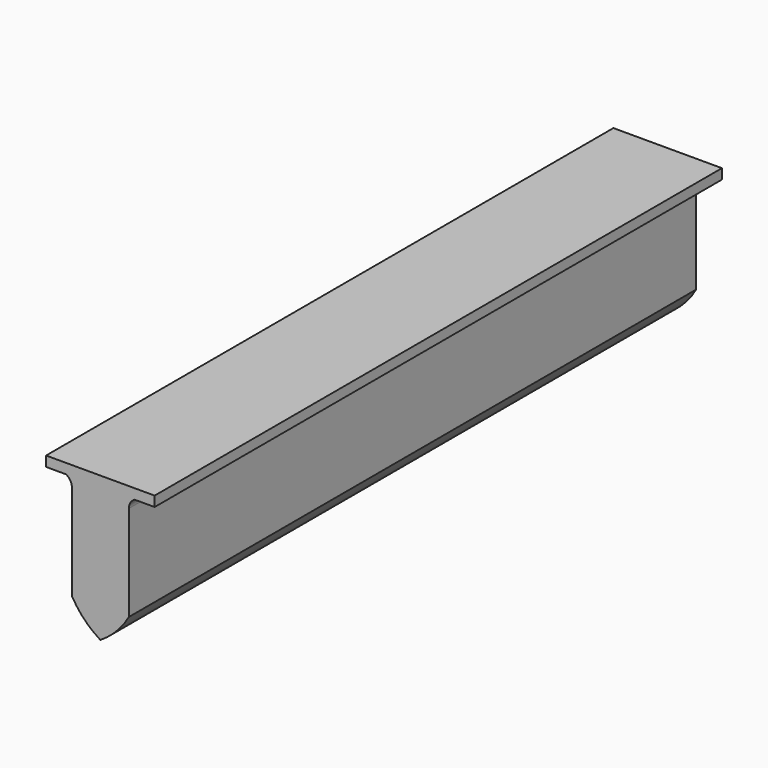
from build123d import *

# Parameters (mm, degrees)
F1_DEPTH = 248.92


with BuildPart() as f1:
    # F0 (on Front) → F1 (new body)
    with BuildSketch(Plane.XZ):
        with BuildLine():
            Line((19.05, 25.4), (-19.05, 25.4))
            Line((-19.05, 25.4), (-19.05, 21.86412))
            Line((-19.05, 21.86412), (-12.065, 21.86412))
            ThreePointArc((-12.065, 21.86412), (-10.553172, 20.455391), (-9.9949, 18.4658))
            Line((-9.9949, 18.4658), (-9.9949, -15.0622))
            ThreePointArc((-9.9949, -15.0622), (-5.65373, -20.865612), (0, -25.4))
            ThreePointArc((0, -25.4), (5.65373, -20.865612), (9.9949, -15.0622))
            Line((9.9949, -15.0622), (9.9949, 18.4658))
            ThreePointArc((9.9949, 18.4658), (10.553172, 20.455391), (12.065, 21.86412))
            Line((12.065, 21.86412), (19.05, 21.86412))
            Line((19.05, 21.86412), (19.05, 25.4))
        make_face()
    extrude(amount=F1_DEPTH)


solid = f1.part
